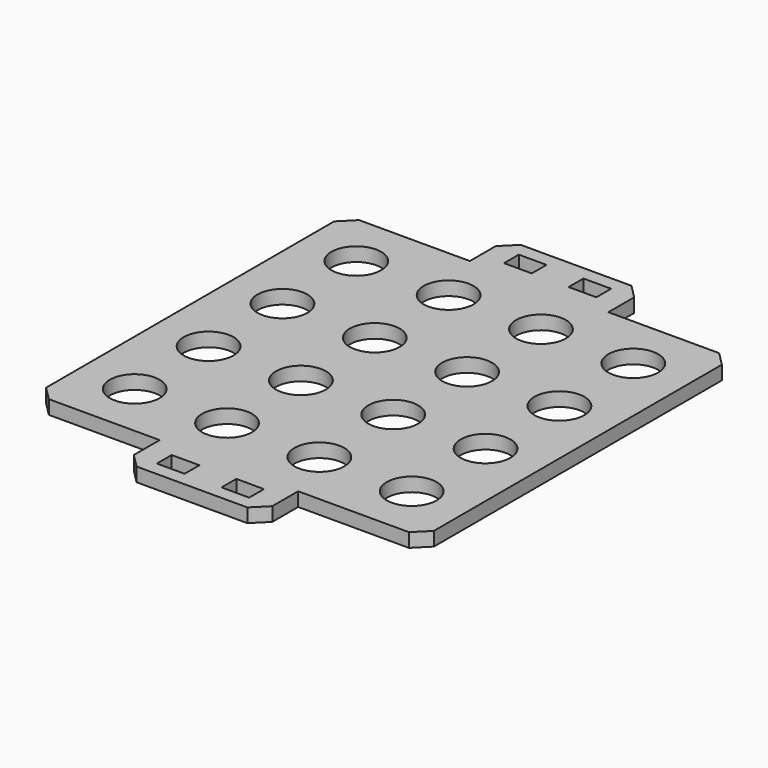
from build123d import *

# Parameters (mm, degrees)
PAD025_DEPTH    = 3
SKETCH041_R     = 5.4
POCKET015_DEPTH = 5
SKETCH042_W     = 6
SKETCH042_H     = 4
POCKET016_DEPTH = 5


with BuildPart() as part:
    # Sketch040 (on Face5 of Binder007) → Pad025 (new body)
    with BuildSketch(Plane.XY.offset(3)):
        Polygon((12, 52), (-12, 52), (-15, 49), (-15, 42), (-39, 42), (-42, 39), (-42, -39), (-39, -42), (-15, -42), (-15, -49), (-12, -52), (12, -52), (15, -49), (15, -42), (39, -42), (42, -39), (42, 39), (39, 42), (15, 42), (15, 49), align=None)
    extrude(amount=PAD025_DEPTH)

    # Sketch041 (on Face22 of Pad025) → Pocket015 (cut)
    with BuildSketch(Plane.XY.offset(6)):
        with Locations((-30, 30)):
            Circle(SKETCH041_R)
        with Locations((-10, 30)):
            Circle(SKETCH041_R)
        with Locations((10, 30)):
            Circle(SKETCH041_R)
        with Locations((30, 30)):
            Circle(SKETCH041_R)
        with Locations((-30, 10)):
            Circle(SKETCH041_R)
        with Locations((-10, 10)):
            Circle(SKETCH041_R)
        with Locations((10, 10)):
            Circle(SKETCH041_R)
        with Locations((30, 10)):
            Circle(SKETCH041_R)
        with Locations((-30, -10)):
            Circle(SKETCH041_R)
        with Locations((-10, -10)):
            Circle(SKETCH041_R)
        with Locations((10, -10)):
            Circle(SKETCH041_R)
        with Locations((30, -10)):
            Circle(SKETCH041_R)
        with Locations((-30, -30)):
            Circle(SKETCH041_R)
        with Locations((-10, -30)):
            Circle(SKETCH041_R)
        with Locations((10, -30)):
            Circle(SKETCH041_R)
        with Locations((30, -30)):
            Circle(SKETCH041_R)
    extrude(amount=-POCKET015_DEPTH, mode=Mode.SUBTRACT)

    # Sketch042 (on Face5 of Pocket015) → Pocket016 (cut)
    with BuildSketch(Plane.XY.offset(6)):
        with Locations((-7, -47)):
            Rectangle(SKETCH042_W, SKETCH042_H)
        with Locations((7, -47)):
            Rectangle(SKETCH042_W, SKETCH042_H)
        with Locations((-7, 47)):
            Rectangle(SKETCH042_W, SKETCH042_H)
        with Locations((7, 47)):
            Rectangle(SKETCH042_W, SKETCH042_H)
    extrude(amount=-POCKET016_DEPTH, mode=Mode.SUBTRACT)


solid = part.part
